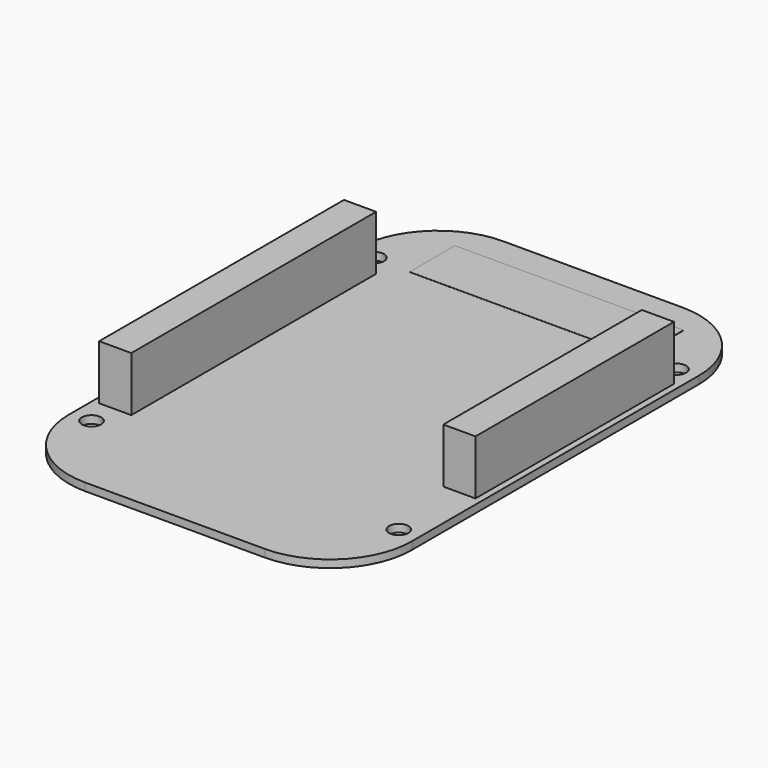
from build123d import *

# Parameters (mm, degrees)
F1_DEPTH = 1.1938
F2_R     = 1.5
F3_DEPTH = 1.1948
F4_W     = 5
F4_H     = 47.6
F4_H_2   = 38.6
F5_DEPTH = 8.5
F6_W     = 35.585186
F6_H     = 8.839631
F7_DEPTH = 0.0254


with BuildPart() as f1:
    # F0 (on Top) → F1 (new body)
    with BuildSketch(Plane.XY):
        with BuildLine():
            Line((-13.97, -40.64), (13.97, -40.64))
            ThreePointArc((13.97, -40.64), (22.950256, -36.920256), (26.67, -27.94))
            Line((26.67, -27.94), (26.67, 27.94))
            ThreePointArc((26.67, 27.94), (22.950256, 36.920256), (13.97, 40.64))
            Line((13.97, 40.64), (-13.97, 40.64))
            ThreePointArc((-13.97, 40.64), (-22.950256, 36.920256), (-26.67, 27.94))
            Line((-26.67, 27.94), (-26.67, -27.94))
            ThreePointArc((-26.67, -27.94), (-22.950256, -36.920256), (-13.97, -40.64))
        make_face()
    extrude(amount=F1_DEPTH)

    # F2 (on face) → F3 (cut, through all)
    with BuildSketch(Plane.XY.offset(1.1938)):
        with Locations((-23.5, 27.5)):
            Circle(F2_R)
        with Locations((23.5, 27.5)):
            Circle(F2_R)
        with Locations((-23.5, -27.5)):
            Circle(F2_R)
        with Locations((23.5, -26.5)):
            Circle(F2_R)
    extrude(amount=-F3_DEPTH, mode=Mode.SUBTRACT)

    # F4 (on face) → F5 (join)
    with BuildSketch(Plane.XY.offset(1.1938)):
        with Locations((-23.17, 0.5)):
            Rectangle(F4_W, F4_H)
        with Locations((23.17, 5)):
            Rectangle(F4_W, F4_H_2)
    extrude(amount=F5_DEPTH)

    # F6 (on face) → F7 (join)
    with BuildSketch(Plane.XY.offset(1.1938)):
        with Locations((1e-06, 31.618683)):
            Rectangle(F6_W, F6_H)
    extrude(amount=F7_DEPTH)


solid = f1.part
